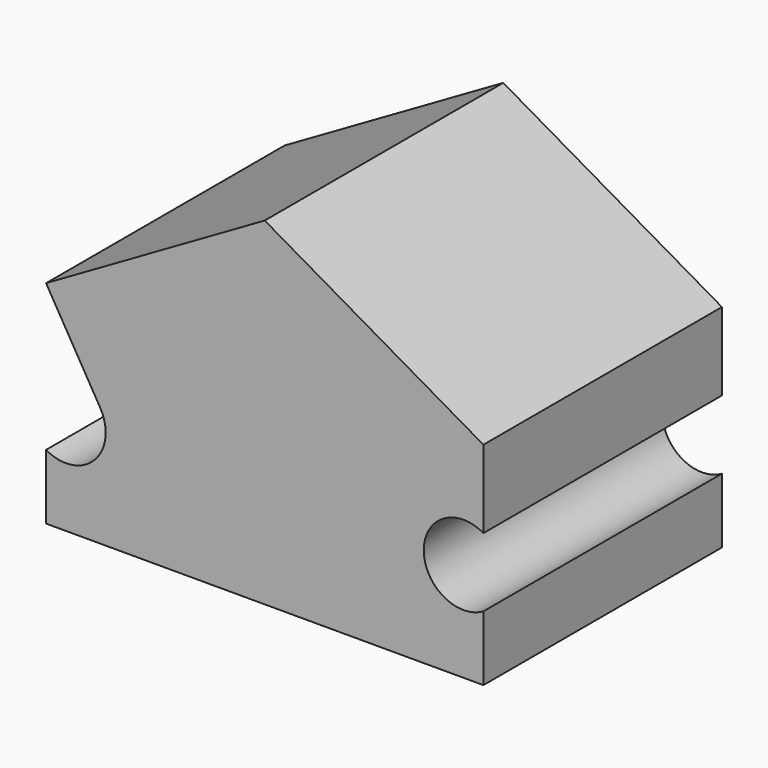
from build123d import *

# Parameters (mm, degrees)
F0_W     = 22
F0_H     = 17
F1_DEPTH = 15
F2_R     = 2
F3_DEPTH = 33.7
F5_DEPTH = 25
F7_DEPTH = 25


with BuildPart() as f1:
    # F0 (on Front) → F1 (new body)
    with BuildSketch(Plane.XZ):
        with Locations((6.459691, -1.324071)):
            Rectangle(F0_W, F0_H)
    extrude(amount=F1_DEPTH)

    # F2 (on face) → F3 (cut)
    with BuildSketch(Plane.XZ.offset(15)):
        with Locations((16.459691, -4.824071)):
            Circle(F2_R)
        with Locations((-3.540309, -4.824071)):
            Circle(F2_R)
    extrude(amount=-F3_DEPTH, mode=Mode.SUBTRACT)

    # F4 (on face) → F5 (cut)
    with BuildSketch(Plane.XZ.offset(15)):
        Polygon((-4.540309, 0.825076), (6.459691, 7.175929), (-4.540309, 7.175929), align=None)
        Polygon((17.459691, 7.175929), (6.459691, 7.175929), (17.459691, 0.825076), align=None)
    extrude(amount=-F5_DEPTH, mode=Mode.SUBTRACT)

    # F6 (on face) → F7 (cut)
    with BuildSketch(Plane.XZ.offset(15)):
        with BuildLine():
            Line((-1.816008, -3.810768), (-4.540309, 0.825076))
            Line((-4.540309, 0.825076), (-4.540309, -3.092021))
            ThreePointArc((-4.540309, -3.092021), (-3.030111, -2.890242), (-1.816008, -3.810768))
        make_face()
    extrude(amount=-F7_DEPTH, mode=Mode.SUBTRACT)


solid = f1.part
